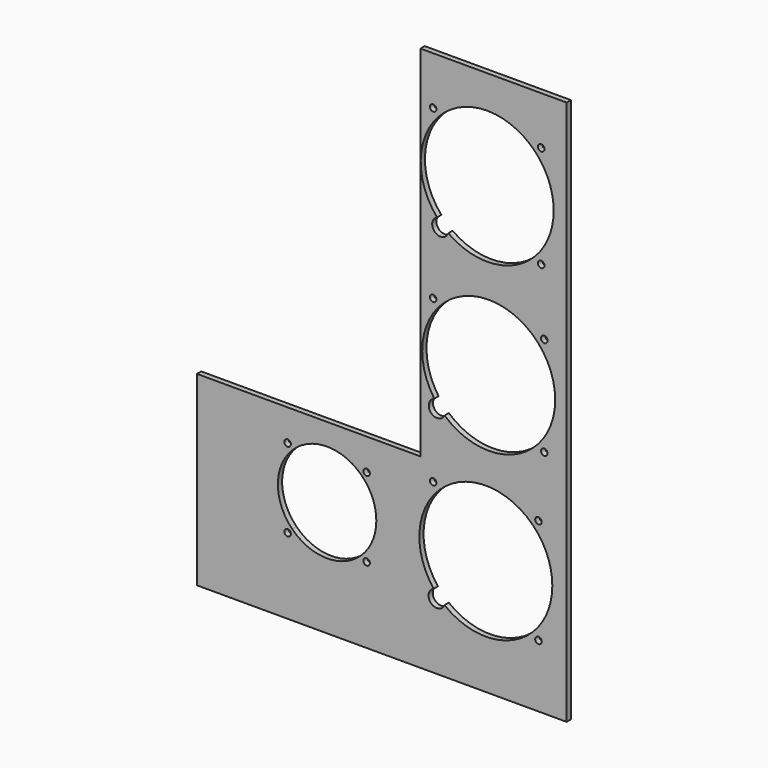
from build123d import *

# Parameters (mm, degrees)
F2_DEPTH = 3.175
F4_DEPTH = 3.175


with BuildPart() as f2:
    # F0 (on Front) → F2 (new body)
    with BuildSketch(Plane.XZ):
        Polygon((279.4, 111.125), (279.4, 0), (500.0625, 0), (500.0625, 325.4375), (412.75, 325.4375), (412.75, 111.125), align=None)
    extrude(amount=F2_DEPTH)

    # F3 (on face) → F4 (cut)
    with BuildSketch(Plane.XZ.offset(3.175)):
        with BuildLine():
            ThreePointArc((481.3642272004, 238.7334597472), (489.4425878701, 251.3483811153), (492.2696260085, 266.0590577686))
            ThreePointArc((492.2696260085, 266.0590577686), (489.4735670658, 280.6918713383), (481.4793654496, 293.2628664897))
            Line((481.4793654496, 293.2628664897), (453.7159248077, 264.9826342644))
            Line((453.7159248077, 264.9826342644), (481.3642272004, 238.7334597472))
        make_face()
        with BuildLine():
            ThreePointArc((486.7738793434, 235.4543879846), (485.5430214889, 237.2708715452), (483.3996973967, 236.8009934551))
            ThreePointArc((483.3996973967, 236.8009934551), (484.0931371979, 233.6379044241), (486.7738793434, 235.4543879846))
        make_face()
        with BuildLine():
            ThreePointArc((422.3019726735, 296.6637275526), (418.529689113, 297.3886696981), (421.7645546203, 295.3171220821))
            ThreePointArc((421.7645546203, 295.3171220821), (422.1626562341, 295.9387854072), (422.3019726735, 296.6637275526))
        make_face()
        with BuildLine():
            ThreePointArc((486.7738793434, 296.6637275526), (484.061304278, 298.4671812228), (483.4479307389, 295.2680748589))
            ThreePointArc((483.4479307389, 295.2680748589), (485.5748544088, 294.8602738825), (486.7738793434, 296.6637275526))
        make_face()
        with BuildLine():
            Line((453.7159248077, 264.9826342644), (481.4793654496, 293.2628664897))
            ThreePointArc((481.4793654496, 293.2628664897), (452.6659255462, 305.7464692978), (423.8000248166, 293.3846557901))
            Line((423.8000248166, 293.3846557901), (453.7159248077, 264.9826342644))
        make_face()
        with BuildLine():
            ThreePointArc((429.4202432807, 233.8313547051), (456.3109827176, 226.5471192703), (481.3642272004, 238.7334597472))
            Line((481.3642272004, 238.7334597472), (453.7159248077, 264.9826342644))
            Line((453.7159248077, 264.9826342644), (428.2060301838, 238.997895798))
            ThreePointArc((428.2060301838, 238.997895798), (429.3061748634, 237.375810391), (429.6929762593, 235.4543879846))
            ThreePointArc((429.6929762593, 235.4543879846), (429.624318368, 234.631493656), (429.4202432807, 233.8313547051))
        make_face()
        with BuildLine():
            Line((453.7159248077, 264.9826342644), (423.8000248166, 293.3846557901))
            ThreePointArc((423.8000248166, 293.3846557901), (412.9034918494, 266.8978947734), (422.6708882255, 239.9742823135))
            ThreePointArc((422.6708882255, 239.9742823135), (425.5898965922, 240.3445886606), (428.2060301838, 238.997895798))
            Line((428.2060301838, 238.997895798), (453.7159248077, 264.9826342644))
        make_face()
        with BuildLine():
            ThreePointArc((422.6708882255, 239.9742823135), (421.3848554166, 231.7820046441), (429.4202432807, 233.8313547051))
            ThreePointArc((429.4202432807, 233.8313547051), (427.6277830511, 235.1984287437), (425.9158340881, 236.6650697529))
            ThreePointArc((425.9158340881, 236.6650697529), (424.2450136155, 238.2722674273), (422.6708882255, 239.9742823135))
        make_face()
        with BuildLine():
            ThreePointArc((425.9158340881, 236.6650697529), (427.6277830511, 235.1984287437), (429.4202432807, 233.8313547051))
            ThreePointArc((429.4202432807, 233.8313547051), (429.624318368, 234.631493656), (429.6929762593, 235.4543879846))
            ThreePointArc((429.6929762593, 235.4543879846), (429.3061748634, 237.375810391), (428.2060301838, 238.997895798))
            Line((428.2060301838, 238.997895798), (425.9158340881, 236.6650697529))
        make_face()
        with BuildLine():
            ThreePointArc((428.2060301838, 238.997895798), (425.5898965922, 240.3445886606), (422.6708882255, 239.9742823135))
            ThreePointArc((422.6708882255, 239.9742823135), (424.2450136155, 238.2722674273), (425.9158340881, 236.6650697529))
            Line((425.9158340881, 236.6650697529), (428.2060301838, 238.997895798))
        make_face()
        with BuildLine():
            ThreePointArc((483.0871414525, 140.5732665968), (490.5709178225, 152.8645917792), (493.1798448587, 167.0165203833))
            ThreePointArc((493.1798448587, 167.0165203833), (490.5709178225, 181.1684489874), (483.0871414525, 193.4597741698))
            Line((483.0871414525, 193.4597741698), (453.4923448587, 167.0165203833))
            Line((453.4923448587, 167.0165203833), (483.0871414525, 140.5732665968))
        make_face()
        with BuildLine():
            ThreePointArc((488.5943170438, 137.4000761424), (487.3359240854, 139.2273082181), (485.1800854677, 138.703199689))
            ThreePointArc((485.1800854677, 138.703199689), (485.9411100022, 135.5728440667), (488.5943170438, 137.4000761424))
        make_face()
        with BuildLine():
            ThreePointArc((422.3019726735, 196.6329646242), (418.5189405979, 197.3303716658), (421.8046042497, 195.3298410776))
            ThreePointArc((421.8046042497, 195.3298410776), (422.1734047492, 195.9355575826), (422.3019726735, 196.6329646242))
        make_face()
        with BuildLine():
            ThreePointArc((488.5943170438, 196.6329646242), (485.9411100022, 198.4601966998), (485.1800854677, 195.3298410776))
            ThreePointArc((485.1800854677, 195.3298410776), (487.3359240854, 194.8057325485), (488.5943170438, 196.6329646242))
        make_face()
        with BuildLine():
            Line((453.4923448587, 167.0165203833), (483.0871414525, 193.4597741698))
            ThreePointArc((483.0871414525, 193.4597741698), (453.4923448587, 206.7040203833), (423.8975482648, 193.4597741698))
            Line((423.8975482648, 193.4597741698), (453.4923448587, 167.0165203833))
        make_face()
        with BuildLine():
            ThreePointArc((427.1514613938, 137.3305722842), (455.7892458718, 127.3955423289), (483.0871414525, 140.5732665968))
            Line((483.0871414525, 140.5732665968), (453.4923448587, 167.0165203833))
            Line((453.4923448587, 167.0165203833), (426.3787760112, 142.7902689942))
            ThreePointArc((426.3787760112, 142.7902689942), (427.3151461106, 141.2523783874), (427.6415750614, 139.4816890805))
            ThreePointArc((427.6415750614, 139.4816890805), (427.5174964603, 138.3785668209), (427.1514613938, 137.3305722842))
        make_face()
        with BuildLine():
            Line((453.4923448587, 167.0165203833), (423.8975482648, 193.4597741698))
            ThreePointArc((423.8975482648, 193.4597741698), (413.8713668043, 169.3134213964), (421.0401435648, 144.1702452507))
            ThreePointArc((421.0401435648, 144.1702452507), (423.9186063293, 144.2893699648), (426.3787760112, 142.7902689942))
            Line((426.3787760112, 142.7902689942), (453.4923448587, 167.0165203833))
        make_face()
        with BuildLine():
            ThreePointArc((421.0401435648, 144.1702452507), (418.9729741116, 136.1731091667), (427.1514613938, 137.3305722842))
            ThreePointArc((427.1514613938, 137.3305722842), (425.4775480093, 138.9048001631), (423.8975482648, 140.5732665968))
            ThreePointArc((423.8975482648, 140.5732665968), (422.4167587728, 142.330378407), (421.0401435648, 144.1702452507))
        make_face()
        with BuildLine():
            ThreePointArc((423.8975482648, 140.5732665968), (425.4775480093, 138.9048001631), (427.1514613938, 137.3305722842))
            ThreePointArc((427.1514613938, 137.3305722842), (427.5174964603, 138.3785668209), (427.6415750614, 139.4816890805))
            ThreePointArc((427.6415750614, 139.4816890805), (427.3151461106, 141.2523783874), (426.3787760112, 142.7902689942))
            Line((426.3787760112, 142.7902689942), (423.8975482648, 140.5732665968))
        make_face()
        with BuildLine():
            ThreePointArc((426.3787760112, 142.7902689942), (423.9186063293, 144.2893699648), (421.0401435648, 144.1702452507))
            ThreePointArc((421.0401435648, 144.1702452507), (422.4167587728, 142.330378407), (423.8975482648, 140.5732665968))
            Line((423.8975482648, 140.5732665968), (426.3787760112, 142.7902689942))
        make_face()
        with BuildLine():
            ThreePointArc((479.8403694756, 40.7290278601), (488.4435380438, 53.6045795165), (491.4645690973, 68.7923282385))
            ThreePointArc((491.4645690973, 68.7923282385), (488.4435380438, 83.9800769605), (479.8403694756, 96.8556286168))
            Line((479.8403694756, 96.8556286168), (451.7770690973, 68.7923282385))
            Line((451.7770690973, 68.7923282385), (479.8403694756, 40.7290278601))
        make_face()
        with BuildLine():
            ThreePointArc((485.163765521, 37.3614318147), (483.956417778, 39.1683554044), (481.8250060784, 38.7443912574))
            ThreePointArc((481.8250060784, 38.7443912574), (482.459513264, 35.5545082251), (485.163765521, 37.3614318147))
        make_face()
        with BuildLine():
            ThreePointArc((422.3019726735, 100.2232246622), (418.5392490839, 100.9716769192), (421.7291321162, 98.8402652196))
            ThreePointArc((421.7291321162, 98.8402652196), (422.1530962632, 99.4747724052), (422.3019726735, 100.2232246622))
        make_face()
        with BuildLine():
            ThreePointArc((485.163765521, 100.2232246622), (482.459513264, 102.0301482519), (481.8250060784, 98.8402652196))
            ThreePointArc((481.8250060784, 98.8402652196), (483.956417778, 98.4163010725), (485.163765521, 100.2232246622))
        make_face()
        with BuildLine():
            Line((451.7770690973, 68.7923282385), (479.8403694756, 96.8556286168))
            ThreePointArc((479.8403694756, 96.8556286168), (451.7770690973, 108.4798282385), (423.7137687189, 96.8556286168))
            Line((423.7137687189, 96.8556286168), (451.7770690973, 68.7923282385))
        make_face()
        with BuildLine():
            ThreePointArc((427.1446274419, 37.6741587174), (454.0739701104, 29.1713501841), (479.8403694756, 40.7290278601))
            Line((479.8403694756, 40.7290278601), (451.7770690973, 68.7923282385))
            Line((451.7770690973, 68.7923282385), (426.0665958227, 43.0818549639))
            ThreePointArc((426.0665958227, 43.0818549639), (427.1430242739, 41.4708659406), (427.5210156793, 39.5705748205))
            ThreePointArc((427.5210156793, 39.5705748205), (427.426009773, 38.6038713834), (427.1446274419, 37.6741587174))
        make_face()
        with BuildLine():
            Line((451.7770690973, 68.7923282385), (423.7137687189, 96.8556286168))
            ThreePointArc((423.7137687189, 96.8556286168), (412.1560910429, 71.0892292516), (420.6588995762, 44.1598865831))
            ThreePointArc((420.6588995762, 44.1598865831), (423.5261320935, 44.4404507922), (426.0665958227, 43.0818549639))
            Line((426.0665958227, 43.0818549639), (451.7770690973, 68.7923282385))
        make_face()
        with BuildLine():
            ThreePointArc((420.6588995762, 44.1598865831), (419.044035536, 36.0592946772), (427.1446274419, 37.6741587174))
            ThreePointArc((427.1446274419, 37.6741587174), (425.3849611199, 39.1519116969), (423.7137687189, 40.7290278601))
            ThreePointArc((423.7137687189, 40.7290278601), (422.1366525557, 42.4002202611), (420.6588995762, 44.1598865831))
        make_face()
        with BuildLine():
            ThreePointArc((423.7137687189, 40.7290278601), (425.3849611199, 39.1519116969), (427.1446274419, 37.6741587174))
            ThreePointArc((427.1446274419, 37.6741587174), (427.426009773, 38.6038713834), (427.5210156793, 39.5705748205))
            ThreePointArc((427.5210156793, 39.5705748205), (427.1430242739, 41.4708659406), (426.0665958227, 43.0818549639))
            Line((426.0665958227, 43.0818549639), (423.7137687189, 40.7290278601))
        make_face()
        with BuildLine():
            ThreePointArc((426.0665958227, 43.0818549639), (423.5261320935, 44.4404507922), (420.6588995762, 44.1598865831))
            ThreePointArc((420.6588995762, 44.1598865831), (422.1366525557, 42.4002202611), (423.7137687189, 40.7290278601))
            Line((423.7137687189, 40.7290278601), (426.0665958227, 43.0818549639))
        make_face()
        with BuildLine():
            ThreePointArc((377.8116780768, 48.0209958305), (384.1793993243, 57.5509641444), (386.4154456688, 68.7923282385))
            ThreePointArc((386.4154456688, 68.7923282385), (384.1793993243, 80.0336923326), (377.8116780768, 89.5636606465))
            Line((377.8116780768, 89.5636606465), (357.0403456688, 68.7923282385))
            Line((357.0403456688, 68.7923282385), (377.8116780768, 48.0209958305))
        make_face()
        with BuildLine():
            ThreePointArc((382.5693179866, 45.2191559207), (381.3619702436, 47.0260795104), (379.230558544, 46.6021153633))
            ThreePointArc((379.230558544, 46.6021153633), (379.8650657296, 43.412232331), (382.5693179866, 45.2191559207))
        make_face()
        with BuildLine():
            ThreePointArc((335.422973351, 45.2191559207), (335.2740969407, 45.9676081777), (334.8501327936, 46.6021153633))
            ThreePointArc((334.8501327936, 46.6021153633), (331.6602497613, 44.4707036637), (335.422973351, 45.2191559207))
        make_face()
        with BuildLine():
            ThreePointArc((335.422973351, 92.3655005563), (331.6602497613, 93.1139528133), (334.8501327936, 90.9825411136))
            ThreePointArc((334.8501327936, 90.9825411136), (335.2740969407, 91.6170482993), (335.422973351, 92.3655005563))
        make_face()
        with BuildLine():
            ThreePointArc((382.5693179866, 92.3655005563), (379.8650657296, 94.172424146), (379.230558544, 90.9825411136))
            ThreePointArc((379.230558544, 90.9825411136), (381.3619702436, 90.5585769666), (382.5693179866, 92.3655005563))
        make_face()
        with BuildLine():
            Line((357.0403456688, 68.7923282385), (377.8116780768, 89.5636606465))
            ThreePointArc((377.8116780768, 89.5636606465), (357.0403456688, 98.1674282385), (336.2690132608, 89.5636606465))
            Line((336.2690132608, 89.5636606465), (357.0403456688, 68.7923282385))
        make_face()
        with BuildLine():
            ThreePointArc((336.2690132608, 48.0209958305), (357.0403456688, 39.4172282385), (377.8116780768, 48.0209958305))
            Line((377.8116780768, 48.0209958305), (357.0403456688, 68.7923282385))
            Line((357.0403456688, 68.7923282385), (336.2690132608, 48.0209958305))
        make_face()
        with BuildLine():
            Line((357.0403456688, 68.7923282385), (336.2690132608, 89.5636606465))
            ThreePointArc((336.2690132608, 89.5636606465), (327.6652456688, 68.7923282385), (336.2690132608, 48.0209958305))
            Line((336.2690132608, 48.0209958305), (357.0403456688, 68.7923282385))
        make_face()
    extrude(amount=-F4_DEPTH, mode=Mode.SUBTRACT)


solid = f2.part
